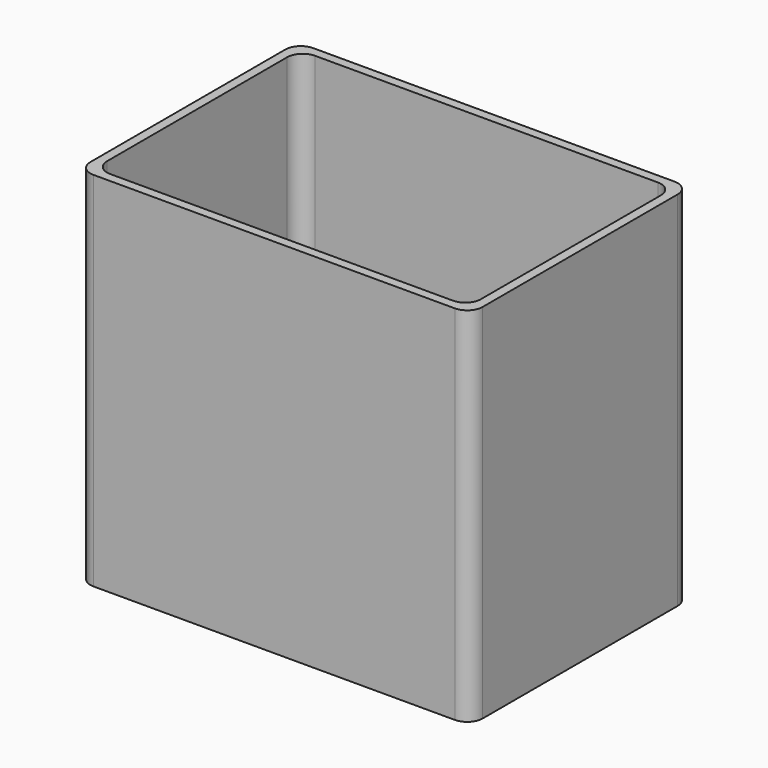
from build123d import *

# Parameters (mm, degrees)
F0_W     = 127
F0_H     = 88.9
F1_DEPTH = 3
F2_W     = 127
F2_H     = 88.9
F2_W_2   = 121
F2_H_2   = 82.9
F3_DEPTH = 114.3
F4_R     = 5


with BuildPart() as f1:
    # F0 (on Top) → F1 (new body)
    with BuildSketch(Plane.XY):
        Rectangle(F0_W, F0_H)
    extrude(amount=F1_DEPTH)

    # F2 (on face) → F3 (join)
    with BuildSketch(Plane.XY.offset(3)):
        Rectangle(F2_W, F2_H)
        Rectangle(F2_W_2, F2_H_2, mode=Mode.SUBTRACT)
    extrude(amount=F3_DEPTH)

    # F4
    f4_edges = [f1.edges().sort_by_distance(p)[0] for p in [
        (0, -41.45, 3),
        (-60.5, 0, 3),
        (-60.5, -41.45, 60.15),
        (-60.5, 41.45, 60.15),
        (0, 41.45, 3),
        (60.5, 41.45, 60.15),
        (60.5, 0, 3),
        (60.5, -41.45, 60.15),
        (63.5, -44.45, 58.65),
        (63.5, 44.45, 58.65),
        (-63.5, 44.45, 58.65),
        (-63.5, -44.45, 58.65),
    ]]
    fillet(f4_edges, radius=F4_R)


solid = f1.part
